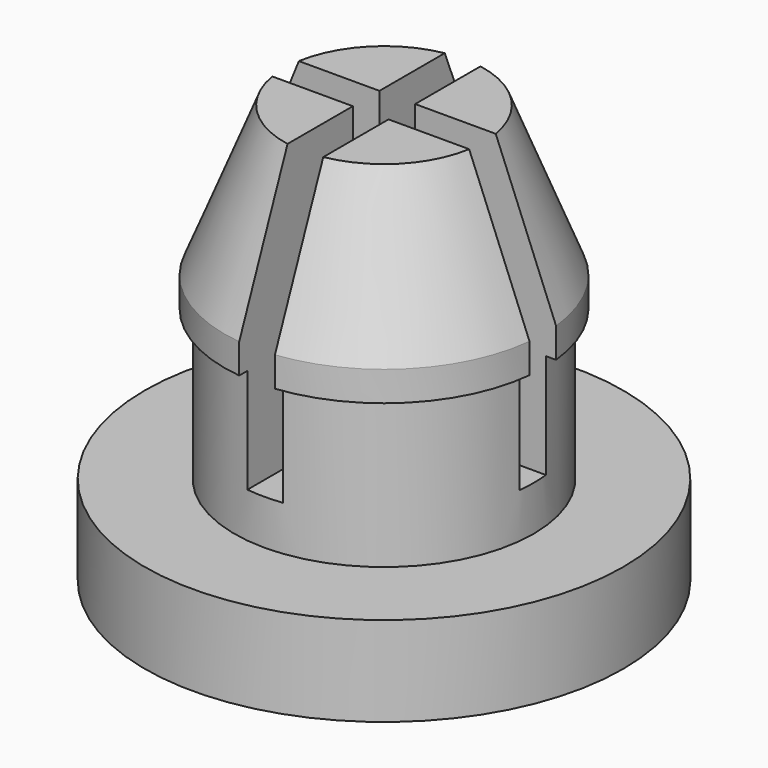
from build123d import *

# Parameters (mm, degrees)
F0_R      = 5
F1_DEPTH  = 12
F0_R_2    = 5.3391988331
F2_DEPTH  = 12
F3_DEPTH  = 6
F4_DEPTH  = 1
F0_R_3    = 8
F0_R_4    = 6
F5_DEPTH  = 1
F8_DEPTH  = 10
F9_SIZE2  = 5
F9_SIZE   = 2
F10_DEPTH = 2


with BuildPart() as f1:
    # F0 (on Top) → F1 (new body)
    with BuildSketch(Plane.XY):
        Circle(F0_R)
    extrude(amount=F1_DEPTH)

    # F0 (on Top) → F2 (join)
    with BuildSketch(Plane.XY):
        Circle(F0_R_2)
        Circle(F0_R, mode=Mode.SUBTRACT)
    extrude(amount=F2_DEPTH)

    # F0 (on Top) → F3 (cut)
    with BuildSketch(Plane.XY):
        Circle(F0_R_2)
        Circle(F0_R, mode=Mode.SUBTRACT)
    extrude(amount=F3_DEPTH, mode=Mode.SUBTRACT)

    # F0 (on Top) → F4 (join)
    with BuildSketch(Plane.XY):
        Circle(F0_R_2)
        Circle(F0_R, mode=Mode.SUBTRACT)
    extrude(amount=F4_DEPTH)



with BuildPart() as f4:
    # F0 (on Top) → F4, piece 2 (new body)
    with BuildSketch(Plane.XY):
        Circle(F0_R_3)
        Circle(F0_R_4, mode=Mode.SUBTRACT)
    extrude(amount=F4_DEPTH)


with BuildPart() as f1_1:
    add(f1.part)

    add(f4.part)  # F5 merges F4
    # F0 (on Top) → F5 (join)
    with BuildSketch(Plane.XY):
        Circle(F0_R_4)
        Circle(F0_R_2, mode=Mode.SUBTRACT)
    extrude(amount=F5_DEPTH)

    # F7 (on offset) → F8 (cut)
    with BuildSketch(Plane.XY.offset(12.5)):
        Polygon((-0.5972407078, -6.0852188617), (0.5972407078, -6.0852188617), (0.5972407078, -0.5560389838), (5.559894722, -0.5560389838), (5.559894722, 0.5560389838), (0.5972407078, 0.5560389838), (0.5972407078, 6.0852188617), (-0.5972407078, 6.0852188617), (-0.5972407078, 0.5560389838), (-5.559894722, 0.5560389838), (-5.559894722, -0.5560389838), (-0.5972407078, -0.5560389838), align=None)
    extrude(amount=-F8_DEPTH, mode=Mode.SUBTRACT)

    # F9
    f9_edges = [f1_1.edges().sort_by_distance(p)[0] for p in [
        (3.790008, -3.760703, 12),
        (-3.790008, -3.760703, 12),
        (3.790008, 3.760703, 12),
        (-3.790008, 3.760703, 12),
    ]]
    chamfer(f9_edges, length=F9_SIZE, length2=F9_SIZE2)

    # F0 (on Top) → F10 (join)
    with BuildSketch(Plane.XY):
        Circle(F0_R_3)
        Circle(F0_R_4, mode=Mode.SUBTRACT)
        Circle(F0_R_4)
        Circle(F0_R_2, mode=Mode.SUBTRACT)
        Circle(F0_R_2)
        Circle(F0_R, mode=Mode.SUBTRACT)
        Circle(F0_R)
    extrude(amount=-F10_DEPTH)


solid = f1_1.part
